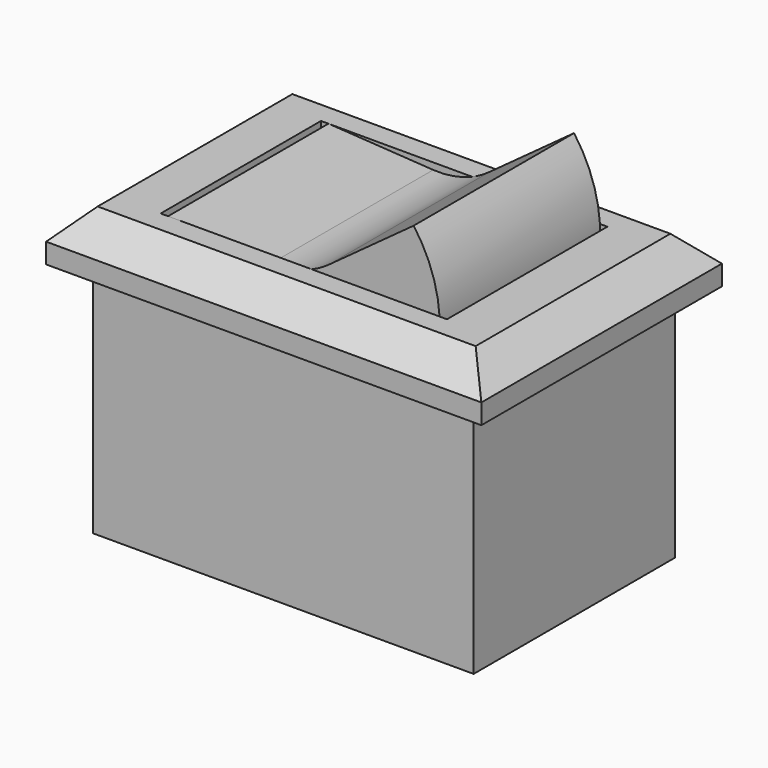
from build123d import *

# Parameters (mm, degrees)
SKETCH_W     = 15.2
SKETCH_H     = 10.5
PAD_DEPTH    = 1.7
SKETCH001_W  = 13.3
SKETCH001_H  = 8.8
PAD001_DEPTH = 8.3
SKETCH002_W  = 10
SKETCH002_H  = 7
POCKET_DEPTH = 5
PAD002_DEPTH = 7
CHAMFER_SIZE = 1


with BuildPart() as part:
    # Sketch → Pad (new body)
    with BuildSketch(Plane.XY):
        Rectangle(SKETCH_W, SKETCH_H)
    extrude(amount=PAD_DEPTH)

    # Sketch001 → Pad001 (join)
    with BuildSketch(Plane.XY):
        Rectangle(SKETCH001_W, SKETCH001_H)
    extrude(amount=-PAD001_DEPTH)

    # Sketch002 → Pocket (cut, symmetric)
    with BuildSketch(Plane.XY):
        Rectangle(SKETCH002_W, SKETCH002_H)
    extrude(amount=POCKET_DEPTH, both=True, mode=Mode.SUBTRACT)

    # Sketch003 (on Face14 of Pocket) → Pad002 (join)
    with BuildSketch(Plane.XZ.offset(-3.5)):
        with BuildLine():
            ThreePointArc((-4.740517, 1.7), (1.329131, -3.160253), (3.836991, 4.2))
            Line((0.875828, 2.039126), (3.836991, 4.2))
            ThreePointArc((-1.082066, 1.468478), (-0.053141, 1.582328), (0.875828, 2.039126))
            Line((-4.740517, 1.7), (-1.082066, 1.468478))
        make_face()
    extrude(amount=PAD002_DEPTH)

    # Chamfer
    chamfer_edges = [part.edges().sort_by_distance(p)[0] for p in [
        (-7.6, 0, 1.7),
        (0, 5.25, 1.7),
        (7.6, 0, 1.7),
        (0, -5.25, 1.7),
    ]]
    chamfer(chamfer_edges, length=CHAMFER_SIZE)


solid = part.part
